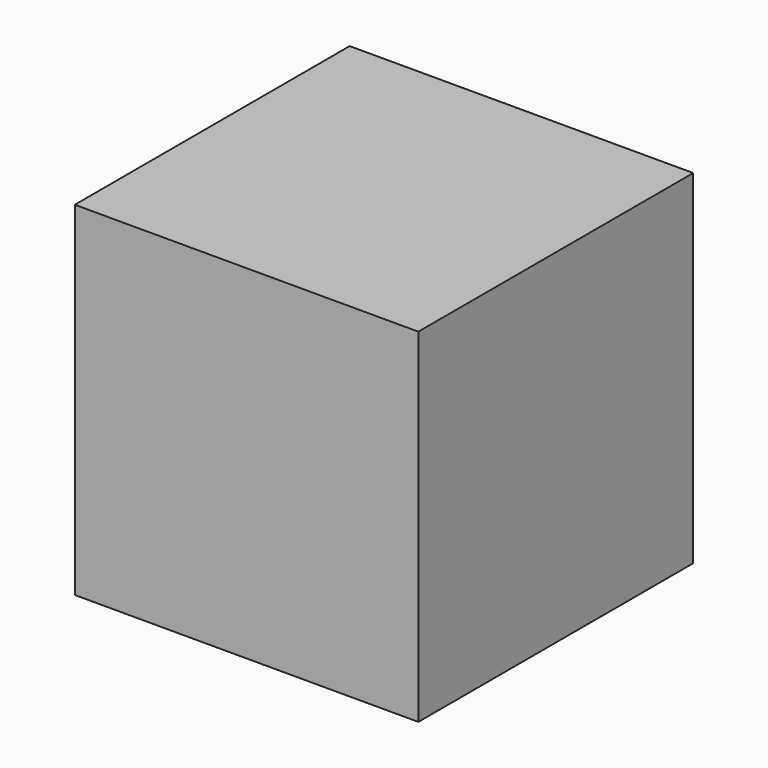
from build123d import *

# Parameters (mm, degrees)
F0_W     = 127
F0_H     = 127
F2_DEPTH = 63.5


with BuildPart() as f2:
    # F0 (on Front) → F2 (new body, symmetric)
    with BuildSketch(Plane.XZ):
        Rectangle(F0_W, F0_H)
    extrude(amount=F2_DEPTH, both=True)

    # F1 (on Front) → F3 (revolve, cut)
    with BuildSketch(Plane.XZ):
        with BuildLine():
            Line((0, 50.8), (0, -50.8))
            ThreePointArc((0, -50.8), (50.8, 0), (0, 50.8))
        make_face()
    revolve(axis=Axis((0, 0, 0), (0, 0, 1)), mode=Mode.SUBTRACT)


solid = f2.part
